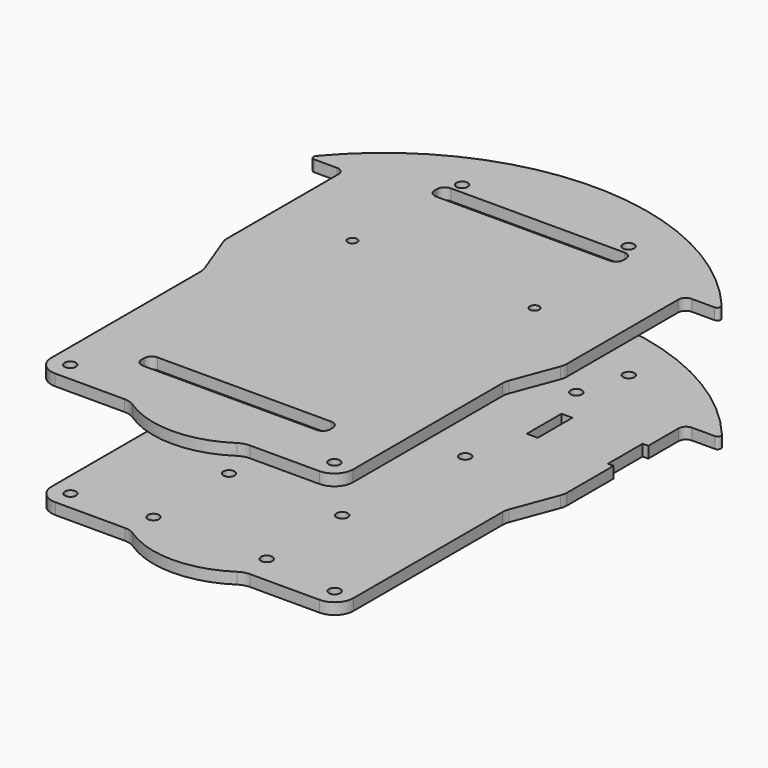
from build123d import *

# Parameters (mm, degrees)
F0_R     = 1.5
F0_W     = 2.9
F0_H     = 11.5
F0_W_2   = 16
F0_H_2   = 5
F1_DEPTH = 3
F5_R     = 1.5
F5_R_2   = 1.25
F6_DEPTH = 3


with BuildPart() as f1:
    # F0 (on Top) → F1 (new body)
    with BuildSketch(Plane.XY):
        with BuildLine():
            ThreePointArc((53.038171, 43.391787), (53.8534, 43.91047), (53.728972, 44.86867))
            ThreePointArc((53.728972, 44.86867), (0, 70), (-53.728972, 44.86867))
            ThreePointArc((-53.728972, 44.86867), (-53.8534, 43.91047), (-53.038171, 43.391787))
            Line((-53.038171, 43.391787), (-47, 43.391787))
            ThreePointArc((-47, 43.391787), (-45.585786, 42.806001), (-45, 41.391787))
            Line((-45, 41.391787), (-45, 31.391787))
            Line((-45, 31.391787), (-43.5, 31.391787))
            Line((-43.5, 31.391787), (-43.5, 19.891787))
            Line((-43.5, 19.891787), (-45, 19.891787))
            Line((-45, 19.891787), (-45, 4.528374))
            ThreePointArc((-45, 4.528374), (-44.919305, 3.633702), (-44.679825, 2.767909))
            Line((-44.679825, 2.767909), (-40.320175, -8.821297))
            ThreePointArc((-40.320175, -8.821297), (-40.080695, -9.687091), (-40, -10.581763))
            Line((-40, -10.581763), (-40, -60))
            ThreePointArc((-40, -60), (-38.535534, -63.535534), (-35, -65))
            Line((-35, -65), (-16.583124, -65))
            ThreePointArc((-16.583124, -65), (-15.139748, -65.212864), (-13.81927, -65.833333))
            ThreePointArc((-13.81927, -65.833333), (0, -70), (13.81927, -65.833333))
            ThreePointArc((13.81927, -65.833333), (15.139748, -65.212864), (16.583124, -65))
            Line((16.583124, -65), (35, -65))
            ThreePointArc((35, -65), (38.535534, -63.535534), (40, -60))
            Line((40, -60), (40, -10.581763))
            ThreePointArc((40, -10.581763), (40.080695, -9.687091), (40.320175, -8.821297))
            Line((40.320175, -8.821297), (44.679825, 2.767909))
            ThreePointArc((44.679825, 2.767909), (44.919305, 3.633702), (45, 4.528374))
            Line((45, 4.528374), (45, 19.891787))
            Line((45, 19.891787), (43.5, 19.891787))
            Line((43.5, 19.891787), (43.5, 31.391787))
            Line((43.5, 31.391787), (45, 31.391787))
            Line((45, 31.391787), (45, 41.391787))
            ThreePointArc((45, 41.391787), (45.585786, 42.806001), (47, 43.391787))
            Line((47, 43.391787), (53.038171, 43.391787))
        make_face()
        with Locations((-35, -60)):
            Circle(F0_R, mode=Mode.SUBTRACT)
        with Locations((-15, -57.5)):
            Circle(F0_R, mode=Mode.SUBTRACT)
        with Locations((-15, -32.5)):
            Circle(F0_R, mode=Mode.SUBTRACT)
        with Locations((15, -57.5)):
            Circle(F0_R, mode=Mode.SUBTRACT)
        with Locations((35, -60)):
            Circle(F0_R, mode=Mode.SUBTRACT)
        with Locations((15, -32.5)):
            Circle(F0_R, mode=Mode.SUBTRACT)
        with Locations((-18.4, 4.008853)):
            Circle(F0_R, mode=Mode.SUBTRACT)
        with Locations((-23.45, 25.641787)):
            Rectangle(F0_W, F0_H, mode=Mode.SUBTRACT)
        with Locations((-18.4, 40.808853)):
            Circle(F0_R, mode=Mode.SUBTRACT)
        with Locations((-22.051027, 53.619026)):
            Circle(F0_R, mode=Mode.SUBTRACT)
        with Locations((18.4, 4.008853)):
            Circle(F0_R, mode=Mode.SUBTRACT)
        with Locations((23.45, 25.641787)):
            Rectangle(F0_W, F0_H, mode=Mode.SUBTRACT)
        with Locations((0, 48.642988)):
            Rectangle(F0_W_2, F0_H_2, mode=Mode.SUBTRACT)
        with Locations((18.4, 40.808853)):
            Circle(F0_R, mode=Mode.SUBTRACT)
        with Locations((22.051027, 53.619026)):
            Circle(F0_R, mode=Mode.SUBTRACT)
    extrude(amount=F1_DEPTH)


with BuildPart() as f2_1:
    # F2: copy of F1
    add(f1.part.moved(Location((0, 0, 30))))


with BuildPart() as f6:
    # F5 (on offset) → F6 (new body)
    with BuildSketch(Plane.XY.offset(30)):
        with BuildLine():
            ThreePointArc((52.955246, 43.410564), (53.770474, 43.929247), (53.646047, 44.887447))
            ThreePointArc((53.646047, 44.887447), (-0.082925, 70.018777), (-53.811897, 44.887447))
            ThreePointArc((-53.811897, 44.887447), (-53.936325, 43.929247), (-53.121096, 43.410564))
            Line((-53.121096, 43.410564), (-47.082925, 43.410564))
            ThreePointArc((-47.082925, 43.410564), (-45.668712, 42.824778), (-45.082925, 41.410564))
            Line((-45.082925, 41.410564), (-45.082925, 4.547152))
            ThreePointArc((-45.082925, 4.547152), (-45.00223, 3.65248), (-44.76275, 2.786686))
            Line((-44.76275, 2.786686), (-40.4031, -8.80252))
            ThreePointArc((-40.4031, -8.80252), (-40.16362, -9.668314), (-40.082925, -10.562986))
            Line((-40.082925, -10.562986), (-40.082925, -59.981223))
            ThreePointArc((-40.082925, -59.981223), (-38.618459, -63.516757), (-35.082925, -64.981223))
            Line((-35.082925, -64.981223), (-16.666049, -64.981223))
            ThreePointArc((-16.666049, -64.981223), (-15.222673, -65.194087), (-13.902195, -65.814556))
            ThreePointArc((-13.902195, -65.814556), (-0.082925, -69.981223), (13.736345, -65.814556))
            ThreePointArc((13.736345, -65.814556), (15.056823, -65.194087), (16.500199, -64.981223))
            Line((16.500199, -64.981223), (34.917075, -64.981223))
            ThreePointArc((34.917075, -64.981223), (38.452609, -63.516757), (39.917075, -59.981223))
            Line((39.917075, -59.981223), (39.917075, -10.562986))
            ThreePointArc((39.917075, -10.562986), (39.99777, -9.668314), (40.23725, -8.80252))
            Line((40.23725, -8.80252), (44.5969, 2.786686))
            ThreePointArc((44.5969, 2.786686), (44.83638, 3.65248), (44.917075, 4.547152))
            Line((44.917075, 4.547152), (44.917075, 19.910564))
            Line((44.917075, 19.910564), (44.917075, 41.410564))
            ThreePointArc((44.917075, 41.410564), (45.502861, 42.824778), (46.917075, 43.410564))
            Line((46.917075, 43.410564), (52.955246, 43.410564))
        make_face()
        with Locations((-35.082925, -59.981223)):
            Circle(F5_R, mode=Mode.SUBTRACT)
        with BuildLine():
            ThreePointArc((-25, -48.124211), (-24.414214, -46.709997), (-23, -46.124211))
            Line((-23, -46.124211), (23, -46.124211))
            ThreePointArc((23, -46.124211), (24.414214, -46.709997), (25, -48.124211))
            Line((25, -48.124211), (25, -48.924211))
            ThreePointArc((25, -48.924211), (24.414214, -50.338424), (23, -50.924211))
            Line((23, -50.924211), (-23, -50.924211))
            ThreePointArc((-23, -50.924211), (-24.414214, -50.338424), (-25, -48.924211))
            Line((-25, -48.924211), (-25, -48.124211))
        make_face(mode=Mode.SUBTRACT)
        with Locations((34.917075, -59.981223)):
            Circle(F5_R, mode=Mode.SUBTRACT)
        with Locations((-24.222925, 19.922955)):
            Circle(F5_R_2, mode=Mode.SUBTRACT)
        with Locations((-22.133952, 53.637804)):
            Circle(F5_R, mode=Mode.SUBTRACT)
        with Locations((24.037075, 19.922955)):
            Circle(F5_R_2, mode=Mode.SUBTRACT)
        with BuildLine():
            ThreePointArc((-25, 48.961765), (-24.414214, 50.375979), (-23, 50.961765))
            Line((-23, 50.961765), (23, 50.961765))
            ThreePointArc((23, 50.961765), (24.414214, 50.375979), (25, 48.961765))
            Line((25, 48.961765), (25, 48.161765))
            ThreePointArc((25, 48.161765), (24.414214, 46.747552), (23, 46.161765))
            Line((23, 46.161765), (-23, 46.161765))
            ThreePointArc((-23, 46.161765), (-24.414214, 46.747552), (-25, 48.161765))
            Line((-25, 48.161765), (-25, 48.961765))
        make_face(mode=Mode.SUBTRACT)
        with Locations((21.968102, 53.637804)):
            Circle(F5_R, mode=Mode.SUBTRACT)
    extrude(amount=F6_DEPTH)


solid = Compound([f1.part, f6.part])
